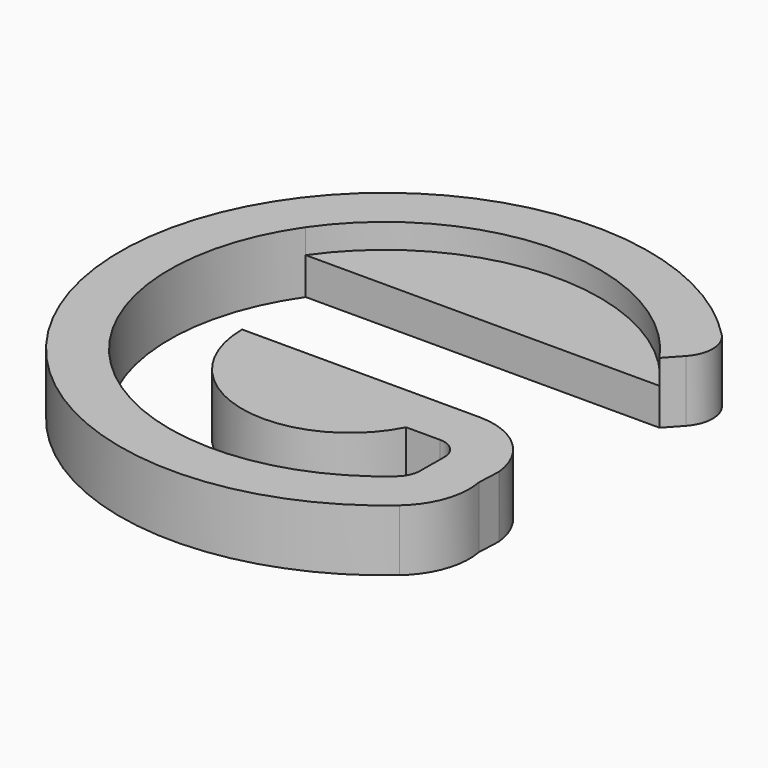
from build123d import *

# Parameters (mm, degrees)
F1_DEPTH = 10
F2_DEPTH = 6
F3_DEPTH = 10
F4_START = 4
F4_DEPTH = 2


with BuildPart() as f1:
    # F0 (on Top) → F1 (new body)
    with BuildSketch(Plane.XY):
        with BuildLine():
            ThreePointArc((-28.7731093646, 19.9275732966), (0, 35), (28.7731093646, 19.9275732966))
            Line((28.7731093646, 19.9275732966), (31.0875692673, 22.4657579282))
            ThreePointArc((31.0875692673, 22.4657579282), (32.4897132735, 26.1572999971), (30.9896112585, 29.8101324057))
            ThreePointArc((30.9896112585, 29.8101324057), (-42.9603623337, 1.8458786953), (28.3184138379, -32.358421434))
            ThreePointArc((28.3184138379, -32.358421434), (31.7685286664, -27.2433524059), (32.2397786778, -21.0915114685))
            Line((32.2397786778, -21.0915114685), (32.4070255862, -17.2282779278))
            ThreePointArc((32.4070255862, -17.2282779278), (28.7073660358, -9.9847822061), (21.1130328535, -7.0724267034))
            Line((21.1130328535, -7.0724267034), (12.5, -7.0724267034))
            ThreePointArc((12.5, -7.0724267034), (0, -19.5724267034), (-12.5, -7.0724267034))
            Line((-12.5, -7.0724267034), (-17.5, -7.0724267034))
            ThreePointArc((-17.5, -7.0724267034), (-4.115416608, -24.0816402696), (15.5643824163, -15.0724267034))
            Line((15.5643824163, -15.0724267034), (21.1130328535, -15.0724267034))
            ThreePointArc((21.1130328535, -15.0724267034), (23.4950663605, -16.0636528083), (24.4707284781, -18.4521034048))
            Line((24.4707284781, -18.4521034048), (24.4390768882, -23.302781969))
            ThreePointArc((24.4390768882, -23.302781969), (24.0700935444, -24.9695381202), (23.0498717286, -26.3382500045))
            ThreePointArc((23.0498717286, -26.3382500045), (-23.3092355879, -26.108993399), (-28.7731093646, 19.9275732966))
        make_face()
    extrude(amount=F1_DEPTH)

    # F0 (on Top) → F2 (join)
    with BuildSketch(Plane.XY):
        with BuildLine():
            Line((-28.7731093646, 19.9275732966), (28.7731093646, 19.9275732966))
            ThreePointArc((28.7731093646, 19.9275732966), (0, 35), (-28.7731093646, 19.9275732966))
        make_face()
    extrude(amount=F2_DEPTH)

    # F0 (on Top) → F3 (join)
    with BuildSketch(Plane.XY):
        with BuildLine():
            ThreePointArc((-12.5, -7.0724267034), (0, -19.5724267034), (12.5, -7.0724267034))
            Line((12.5, -7.0724267034), (-12.5, -7.0724267034))
        make_face()
    extrude(amount=F3_DEPTH)

    # F0 (on Top) → F4 (cut)
    with BuildSketch(Plane.XY.offset(F4_START)):
        with BuildLine():
            ThreePointArc((-12.5, -7.0724267034), (0, -19.5724267034), (12.5, -7.0724267034))
            Line((12.5, -7.0724267034), (-12.5, -7.0724267034))
        make_face()
    extrude(amount=F4_DEPTH, mode=Mode.SUBTRACT)


solid = f1.part
